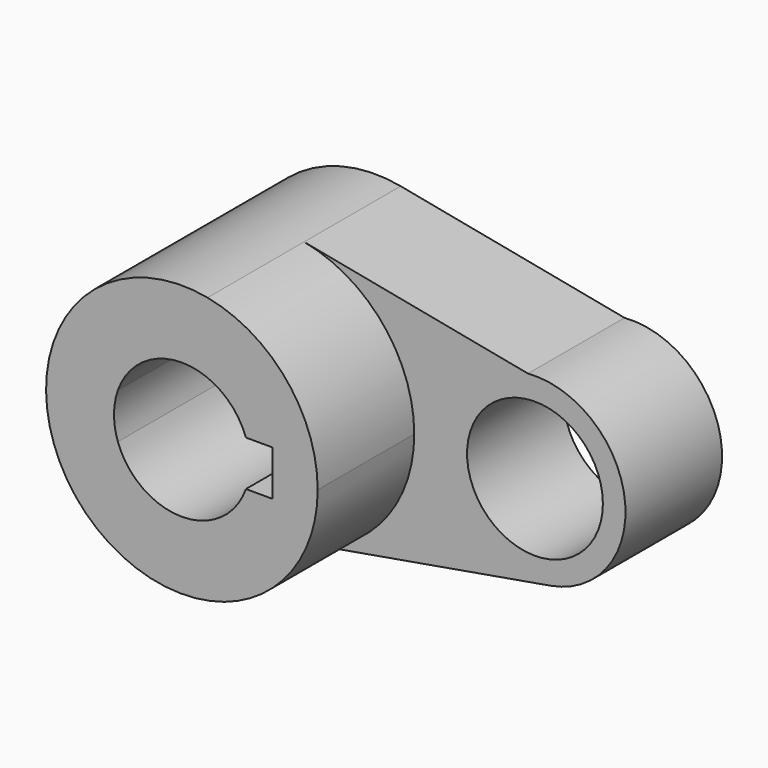
from build123d import *

# Parameters (mm, degrees)
F0_R     = 14.2875
F1_DEPTH = 25.4
F2_DEPTH = 50.8


with BuildPart() as f1:
    # F0 (on Front) → F1 (new body)
    with BuildSketch(Plane.XZ):
        with BuildLine():
            ThreePointArc((8.9398230942, -27.1405635174), (23.1515233831, -16.7492564026), (28.575, 0))
            ThreePointArc((28.575, 0), (22.0329266955, 18.19562492), (5.4022429586, 28.0596934412))
            ThreePointArc((5.4022429586, 28.0596934412), (-28.5165006048, -1.8275169652), (8.9398230942, -27.1405635174))
        make_face()
        with BuildLine():
            ThreePointArc((-13.4703841816, 4.7625), (0, 14.2875), (13.4703841816, 4.7625))
            Line((13.4703841816, 4.7625), (19.05, 4.7625))
            Line((19.05, 4.7625), (19.05, -4.7625))
            Line((19.05, -4.7625), (13.4703841816, -4.7625))
            ThreePointArc((13.4703841816, -4.7625), (0, -14.2875), (-13.4703841816, -4.7625))
            Line((-13.4703841816, -4.7625), (-19.05, -4.7625))
            Line((-19.05, -4.7625), (-19.05, 4.7625))
            Line((-19.05, 4.7625), (-13.4703841816, 4.7625))
        make_face(mode=Mode.SUBTRACT)
        with BuildLine():
            ThreePointArc((73.025, 0), (66.9124367976, 13.9830336161), (52.4974168915, 18.9926103566))
            ThreePointArc((52.4974168915, 18.9926103566), (35.0727779504, -2.3682275199), (57.2286420445, -18.770090928))
            ThreePointArc((57.2286420445, -18.770090928), (68.5503967518, -12.2662263768), (73.025, 0))
        make_face()
        with Locations((53.975, 0)):
            Circle(F0_R, mode=Mode.SUBTRACT)
        with BuildLine():
            ThreePointArc((5.4022429586, 28.0596934412), (22.0329266955, 18.19562492), (28.575, 0))
            ThreePointArc((28.575, 0), (23.1515233831, -16.7492564026), (8.9398230942, -27.1405635174))
            Line((8.9398230942, -27.1405635174), (57.2286420445, -18.770090928))
            ThreePointArc((57.2286420445, -18.770090928), (35.0727779504, -2.3682275199), (52.4974168915, 18.9926103566))
            Line((52.4974168915, 18.9926103566), (5.4022429586, 28.0596934412))
        make_face()
        with BuildLine():
            ThreePointArc((-13.4703841816, -4.7625), (-14.2875, 0), (-13.4703841816, 4.7625))
            Line((-13.4703841816, 4.7625), (-19.05, 4.7625))
            Line((-19.05, 4.7625), (-19.05, -4.7625))
            Line((-19.05, -4.7625), (-13.4703841816, -4.7625))
        make_face()
    extrude(amount=F1_DEPTH)


with BuildPart() as f2:
    # F0 (on Front) → F2 (new body)
    with BuildSketch(Plane.XZ):
        with BuildLine():
            ThreePointArc((8.9398230942, -27.1405635174), (23.1515233831, -16.7492564026), (28.575, 0))
            ThreePointArc((28.575, 0), (22.0329266955, 18.19562492), (5.4022429586, 28.0596934412))
            ThreePointArc((5.4022429586, 28.0596934412), (-28.5165006048, -1.8275169652), (8.9398230942, -27.1405635174))
        make_face()
        with BuildLine():
            ThreePointArc((-13.4703841816, 4.7625), (0, 14.2875), (13.4703841816, 4.7625))
            Line((13.4703841816, 4.7625), (19.05, 4.7625))
            Line((19.05, 4.7625), (19.05, -4.7625))
            Line((19.05, -4.7625), (13.4703841816, -4.7625))
            ThreePointArc((13.4703841816, -4.7625), (0, -14.2875), (-13.4703841816, -4.7625))
            Line((-13.4703841816, -4.7625), (-19.05, -4.7625))
            Line((-19.05, -4.7625), (-19.05, 4.7625))
            Line((-19.05, 4.7625), (-13.4703841816, 4.7625))
        make_face(mode=Mode.SUBTRACT)
        with BuildLine():
            ThreePointArc((-13.4703841816, -4.7625), (-14.2875, 0), (-13.4703841816, 4.7625))
            Line((-13.4703841816, 4.7625), (-19.05, 4.7625))
            Line((-19.05, 4.7625), (-19.05, -4.7625))
            Line((-19.05, -4.7625), (-13.4703841816, -4.7625))
        make_face()
    extrude(amount=F2_DEPTH)


solid = Compound([f1.part, f2.part])
